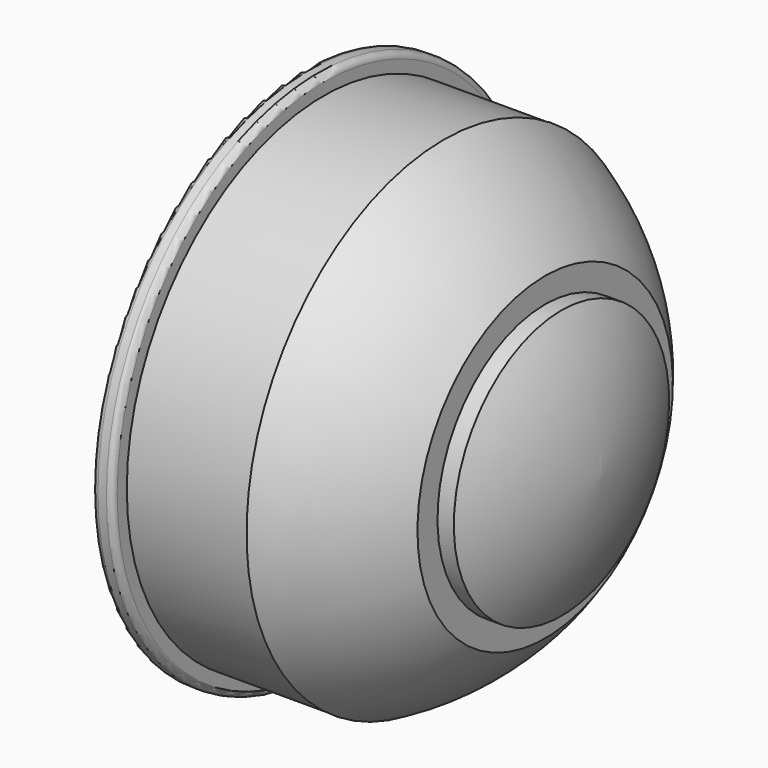
from build123d import *

# Parameters (mm, degrees)
F0_R     = 20.5
F1_DEPTH = 10
F4_R     = 22
F5_DEPTH = 1.7
F6_R     = 0.5
F7_R     = 15
F8_DEPTH = 15
F9_R     = 10


with BuildPart() as f1:
    # F0 (on Right) → F1 (new body)
    with BuildSketch(Plane.YZ):
        Circle(F0_R)
    extrude(amount=F1_DEPTH)

    # F2 (on Front) → F3 (revolve)
    with BuildSketch(Plane.XZ):
        with BuildLine():
            Line((10, 0), (23.039928, 0))
            ThreePointArc((23.039928, 0), (22.111209, 5.803276), (19.804215, 11.208673))
            Line((19.804215, 11.208673), (18.443597, 11.208673))
            Line((18.443597, 11.208673), (18.443597, 13.296706))
            ThreePointArc((18.443597, 13.296706), (14.6452, 17.40848), (10, 20.532038))
            Line((10, 20.532038), (10, 0))
        make_face()
    revolve(axis=Axis((11.340726, 0, 0), (1, 0, 0)))

    # F4 (on face) → F5 (join)
    with BuildSketch(Plane(origin=(0, 0, 0), x_dir=(0, -1, 0), z_dir=(-1, 0, 0))):
        Circle(F4_R)
    extrude(amount=F5_DEPTH)

    # F6
    f6_edges = [f1.edges().sort_by_distance(p)[0] for p in [
        (-1.7, 22, 0),
        (0, 22, 0),
    ]]
    fillet(f6_edges, radius=F6_R)

    # F7 (on face) → F8 (cut)
    with BuildSketch(Plane(origin=(-1.7, 0, 0), x_dir=(0, -1, 0), z_dir=(-1, 0, 0))):
        with Locations((0, 0.914327)):
            Circle(F7_R)
    extrude(amount=-F8_DEPTH, mode=Mode.SUBTRACT)

    # F9
    f9_edges = [f1.edges().sort_by_distance(p)[0] for p in [
        (13.3, 15, 0.914327),
    ]]
    fillet(f9_edges, radius=F9_R)


solid = f1.part
